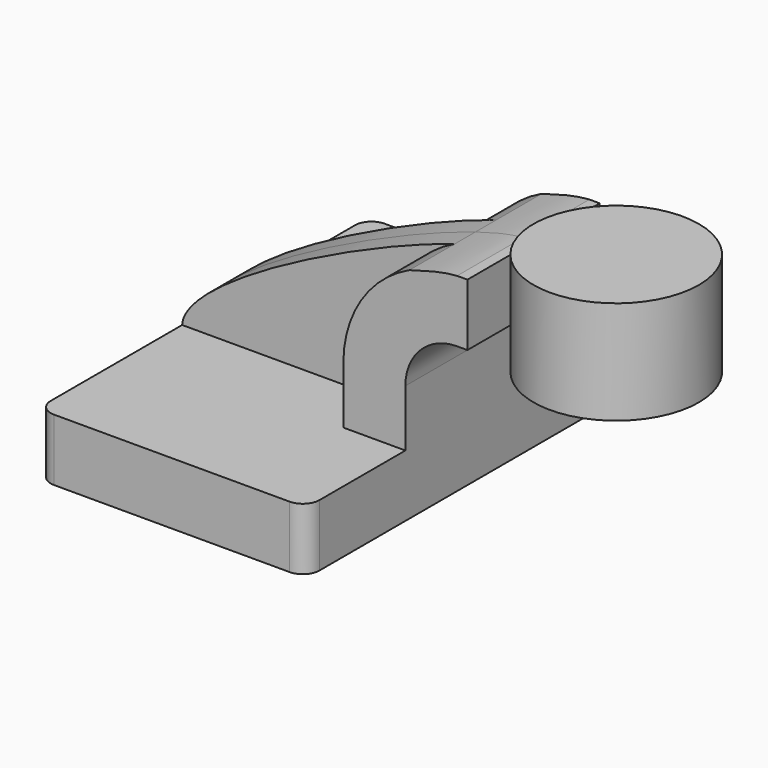
from build123d import *

# Parameters (mm, degrees)
F1_DEPTH = 63.5
F2_DEPTH = 25.4
F3_DEPTH = 7.9375
F5_R     = 5.08


with BuildPart() as f1:
    # F0 (on Front) → F1 (new body, symmetric)
    with BuildSketch(Plane.XZ):
        Polygon((22.225, 9.525), (-41.275, 9.525), (-41.275, -9.525), (41.275, -9.525), (41.275, 9.525), align=None)
    extrude(amount=F1_DEPTH, both=True)

    # F0 (on Front) → F2 (join, symmetric)
    with BuildSketch(Plane.XZ):
        with BuildLine():
            Line((22.225, 27.0002), (22.225, 9.525))
            Line((22.225, 9.525), (41.275, 9.525))
            Line((41.275, 9.525), (41.275, 27.0002))
            ThreePointArc((41.275, 27.0002), (45.9246798487, 38.2255201513), (57.15, 42.8752))
            Line((57.15, 42.8752), (60.325, 42.8752))
            Line((60.325, 42.8752), (60.325, 61.9252))
            Line((60.325, 61.9252), (57.15, 61.9252))
            add(Edge.make_bspline(
                [(42.4895522305, 58.6992046563), (48.6170355167, 60.5945531062), (53.7289755216, 61.7574445531), (57.15, 61.9252)],
                knots=[92.3964918241, 92.3964918241, 92.3964918241, 92.3964918241, 111.5045361635, 111.5045361635, 111.5045361635, 111.5045361635], degree=3))
            ThreePointArc((42.4895522305, 58.6992046563), (27.724061074, 45.8116258717), (22.225, 27.0002))
        make_face()
    extrude(amount=F2_DEPTH, both=True)

    # F0 (on Front) → F3 (join, symmetric)
    with BuildSketch(Plane.XZ):
        with BuildLine():
            add(Edge.make_bspline(
                [(-41.275, 9.525), (-40.5143053144, 23.2431958574), (12.8602532142, 49.5342925152), (42.4895522305, 58.6992046563)],
                knots=[0, 0, 0, 0, 92.3964918241, 92.3964918241, 92.3964918241, 92.3964918241], degree=3))
            Line((-41.275, 9.525), (22.225, 9.525))
            Line((22.225, 9.525), (22.225, 27.0002))
            ThreePointArc((22.225, 27.0002), (27.724061074, 45.8116258717), (42.4895522305, 58.6992046563))
        make_face()
    extrude(amount=F3_DEPTH, both=True)

    # F0 (on Front) → F4 (revolve)
    with BuildSketch(Plane.XZ):
        Polygon((85.725, 66.675), (85.725, 61.9252), (85.725, 42.8752), (85.725, 34.925), (111.125, 34.925), (111.125, 66.675), align=None)
    revolve(axis=Axis((85.725, 0, 50.8), (0, 0, 1)))

    # F5
    f5_edges = [f1.edges().sort_by_distance(p)[0] for p in [
        (-41.275, -63.5, 0),
        (41.275, -63.5, 0),
        (-41.275, 63.5, 0),
        (41.275, 63.5, 0),
    ]]
    fillet(f5_edges, radius=F5_R)


solid = f1.part
